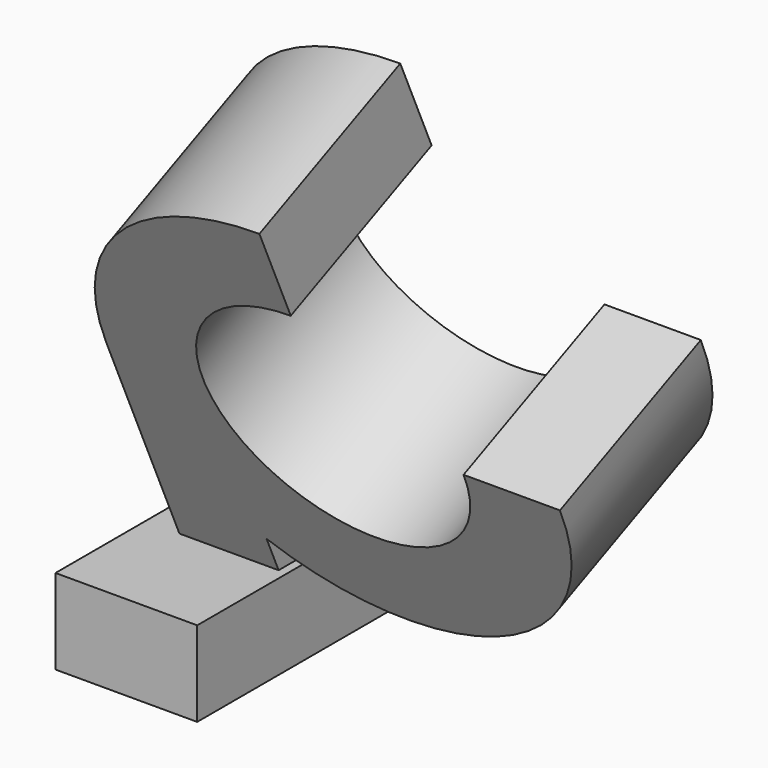
from build123d import *

# Parameters (mm, degrees)
F2_R      = 40
F2_R_2    = 23
F4_DEPTH  = 34
F8_DEPTH  = 25
F10_DEPTH = 34
F11_DEPTH = 133
F13_DEPTH = 262


with BuildPart() as f4:
    # F2 (on face) → F4 (new body)
    with BuildSketch(Plane(origin=(0, 0, 0), x_dir=(-1, 0, 0), z_dir=(0, 0.9135454576, 0.4067366431))):
        Circle(F2_R)
        Circle(F2_R_2, mode=Mode.SUBTRACT)
    extrude(amount=-F4_DEPTH)



with BuildPart() as f8:
    # F7 (on offset) → F8 (new body)
    with BuildSketch(Plane.YZ.offset(-46)):
        Polygon((45.2089201632, -50), (22.2614342654, -50), (28.9398645451, -65), (45.2089201632, -65), align=None)
        Polygon((22.2614342654, -50), (-14.9561992038, -50), (-14.7910798368, -50.3708641703), (-8.2777689242, -65), (28.9398645451, -65), align=None)
        Polygon((-14.7910798368, -50.3708641703), (-14.7910798368, -65), (-8.2777689242, -65), align=None)
        Polygon((-14.9561992038, -50), (-34.7910798368, -50), (-34.7910798368, -65), (-14.7910798368, -65), (-14.7910798368, -50.3708641703), align=None)
    extrude(amount=F8_DEPTH)


with BuildPart() as f4_1:
    add(f4.part)

    add(f8.part)  # F10 merges F8
    # F9 (on face) → F10 (join, through all)
    with BuildSketch(Plane(origin=(0, 0, 0), x_dir=(-1, 0, 0), z_dir=(0, 0.9135454576, 0.4067366431))):
        with BuildLine():
            Line((40, -125.3134310246), (40, 0))
            ThreePointArc((40, 0), (35.3578901582, -18.7034650149), (22.5090198219, -33.0657530786))
            Line((22.5090198219, -33.0657530786), (22.5090198219, -125.3134310246))
            Line((22.5090198219, -125.3134310246), (40, -125.3134310246))
        make_face()
    extrude(amount=-F10_DEPTH)

    # F11 (cut): a face of the model
    f11_faces = [f4_1.faces().sort_by_distance(p)[0] for p in [
        (-22.5090198219, 22.1875323244, -93.3383186081),
    ]]
    extrude(f11_faces, amount=-F11_DEPTH, mode=Mode.SUBTRACT)

    # F12 (on face) → F13 (cut)
    with BuildSketch(Plane(origin=(0, 0, 0), x_dir=(-1, 0, 0), z_dir=(0, 0.9135454576, 0.4067366431))):
        with BuildLine():
            Line((0, 23), (0, 40))
            ThreePointArc((0, 40), (-28.2842712475, 28.2842712475), (-40, 0))
            Line((-40, 0), (-23, 0))
            ThreePointArc((-23, 0), (-16.2634559673, 16.2634559673), (0, 23))
        make_face()
    extrude(amount=-F13_DEPTH, mode=Mode.SUBTRACT)


solid = f4_1.part
